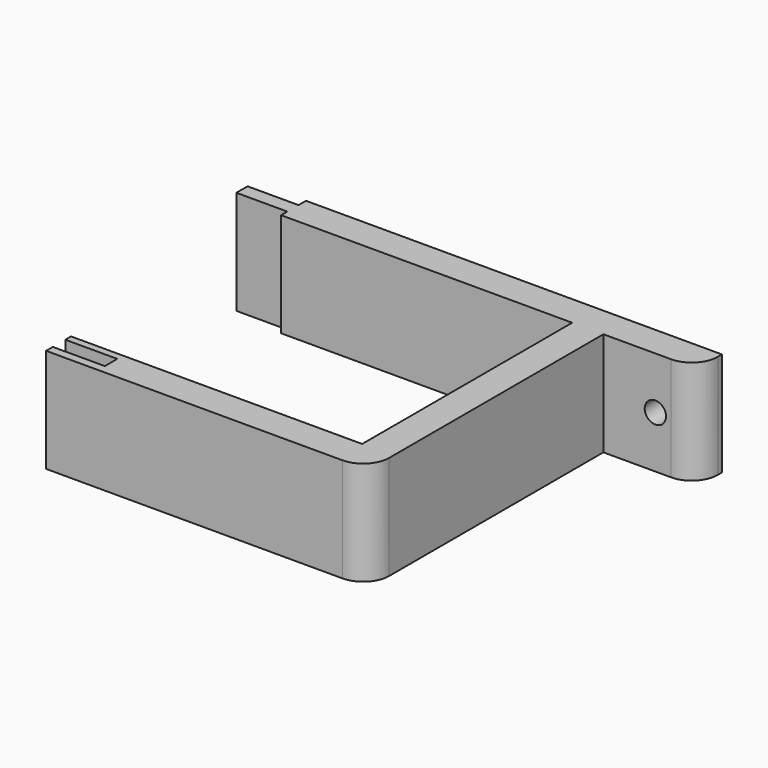
from build123d import *

# Parameters (mm, degrees)
F0_W     = 112
F0_H     = 50.5
F1_DEPTH = 20
F2_R     = 5
F4_D     = 4.1
F6_DEPTH = 20
F7_W     = 60
F7_H     = 6
F8_DEPTH = 1


with BuildPart() as f1:
    # F0 (on Top) → F1 (new body)
    with BuildSketch(Plane.XY):
        Polygon((80, 3), (-80, 3), (-80, -3), (-62, -3), (-62, -59.5), (62, -59.5), (62, -3), (80, -3), align=None)
        with Locations((0, -28.25)):
            Rectangle(F0_W, F0_H, mode=Mode.SUBTRACT)
    extrude(amount=F1_DEPTH)

    # F2
    f2_edges = [f1.edges().sort_by_distance(p)[0] for p in [
        (62, -59.5, 10),
        (-62, -59.5, 10),
        (-80, -3, 10),
        (80, -3, 10),
    ]]
    fillet(f2_edges, radius=F2_R)

    # F4 (through all)
    with Locations(Plane(origin=(0, 3, 0), x_dir=(-1, 0, 0), z_dir=(0, 1, 0))):
        with Locations((-72, 10), (72, 10)):
            Hole(F4_D / 2)

    # F5 (on face) → F6 (cut, through all)
    with BuildSketch(Plane.XY.offset(20)):
        with BuildLine():
            Line((10, -57.87533), (10, -54.87533))
            Line((10, -54.87533), (0, -54.87533))
            Line((0, -54.87533), (0, -53.5))
            Line((0, -53.5), (-56, -53.5))
            Line((-56, -53.5), (-56, -3))
            Line((-56, -3), (0, -3))
            Line((0, -3), (0, -1.5))
            Line((0, -1.5), (-9.8, -1.5))
            Line((-9.8, -1.5), (-9.8, 1.2))
            Line((-9.8, 1.2), (0, 1.2))
            Line((0, 1.2), (0, 3))
            Line((0, 3), (-80, 3))
            Line((-80, 3), (-80, 2))
            ThreePointArc((-80, 2), (-78.535534, -1.535534), (-75, -3))
            Line((-75, -3), (-62, -3))
            Line((-62, -3), (-62, -54.5))
            ThreePointArc((-62, -54.5), (-60.535534, -58.035534), (-57, -59.5))
            Line((-57, -59.5), (0, -59.5))
            Line((0, -59.5), (0, -57.87533))
            Line((0, -57.87533), (10, -57.87533))
        make_face()
    extrude(amount=-F6_DEPTH, mode=Mode.SUBTRACT)

    # F7 (on face) → F8 (join)
    with BuildSketch(Plane(origin=(0, 3, 0), x_dir=(-1, 0, 0), z_dir=(0, 1, 0))):
        with Locations((-35.730945, 10)):
            Rectangle(F7_W, F7_H)
    extrude(amount=F8_DEPTH)


solid = f1.part
